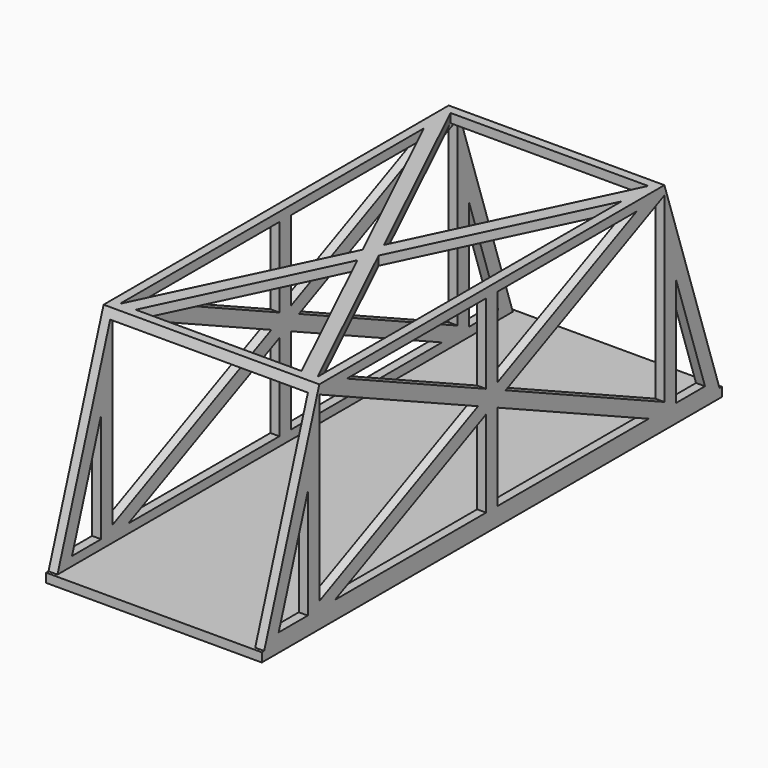
from build123d import *

# Parameters (mm, degrees)
F1_DEPTH  = 38.1
F2_W      = 69.85
F2_H      = 69.85
F3_DEPTH  = 127
F5_DEPTH  = 76.2
F7_DEPTH  = 3.175
F8_W      = 6.4131235046
F8_H      = 3.175
F9_DEPTH  = 76.2
F10_W     = 3.175
F10_H     = 190.3737529909
F11_DEPTH = 3.175


with BuildPart() as f1:
    # F0 (on Right) → F1 (new body, symmetric)
    with BuildSketch(Plane.YZ):
        Polygon((-76.2, 38.1), (-101.6, -38.1), (101.6, -38.1), (76.2, 38.1), align=None)
    extrude(amount=F1_DEPTH, both=True)

    # F2 (on Front) → F3 (cut, symmetric)
    with BuildSketch(Plane.XZ):
        Rectangle(F2_W, F2_H)
    extrude(amount=F3_DEPTH, both=True, mode=Mode.SUBTRACT)

    # F4 (on face) → F5 (cut)
    with BuildSketch(Plane.YZ.offset(38.1)):
        Polygon((-95.1868764954, -34.925), (-81.28, -34.925), (-81.28, 6.7956294863), align=None)
        Polygon((-76.2, 34.925), (-76.2, -29.3368396488), (-6.0961749286, 2.7940801756), align=None)
        Polygon((-2.54, 6.7523270179), (-2.54, 34.925), (-64.0076501428, 34.925), align=None)
        Polygon((2.54, 6.7523270179), (64.0076501428, 34.925), (2.54, 34.925), align=None)
        Polygon((6.0961749286, 2.7940801756), (76.2, -29.3368396488), (76.2, 34.925), align=None)
        Polygon((81.28, 6.7956294863), (81.28, -34.925), (95.1868764954, -34.925), align=None)
        Polygon((2.54, -34.925), (76.2, -34.925), (2.54, -1.1641666667), align=None)
        Polygon((-76.2, -34.925), (-2.54, -34.925), (-2.54, -1.1641666667), align=None)
    extrude(amount=-F5_DEPTH, mode=Mode.SUBTRACT)

    # F6 (on face) → F7 (cut)
    with BuildSketch(Plane.XY.offset(38.1)):
        Polygon((-2.8155455575, -5.8870498021), (-34.925, 61.2509003959), (-34.925, -73.025), align=None)
        Polygon((0, 0), (34.925, 73.025), (-34.925, 73.025), align=None)
        Polygon((34.925, -73.025), (34.925, 61.2509003959), (2.8155455575, -5.8870498021), align=None)
        Polygon((-29.293908885, -73.025), (29.293908885, -73.025), (0, -11.7740996041), align=None)
    extrude(amount=-F7_DEPTH, mode=Mode.SUBTRACT)

    # F8 (on face) → F9 (join)
    with BuildSketch(Plane.YZ.offset(38.1)):
        with Locations((-98.3934382477, -36.5125)):
            Rectangle(F8_W, F8_H)
        with Locations((98.3934382477, -36.5125)):
            Rectangle(F8_W, F8_H)
    extrude(amount=-F9_DEPTH)

    # F10 (on face) → F11 (join)
    with BuildSketch(Plane.XY.offset(-34.925)):
        with Locations((36.5125, 0)):
            Rectangle(F10_W, F10_H)
        with Locations((-36.5125, 0)):
            Rectangle(F10_W, F10_H)
    extrude(amount=F11_DEPTH)


solid = f1.part
